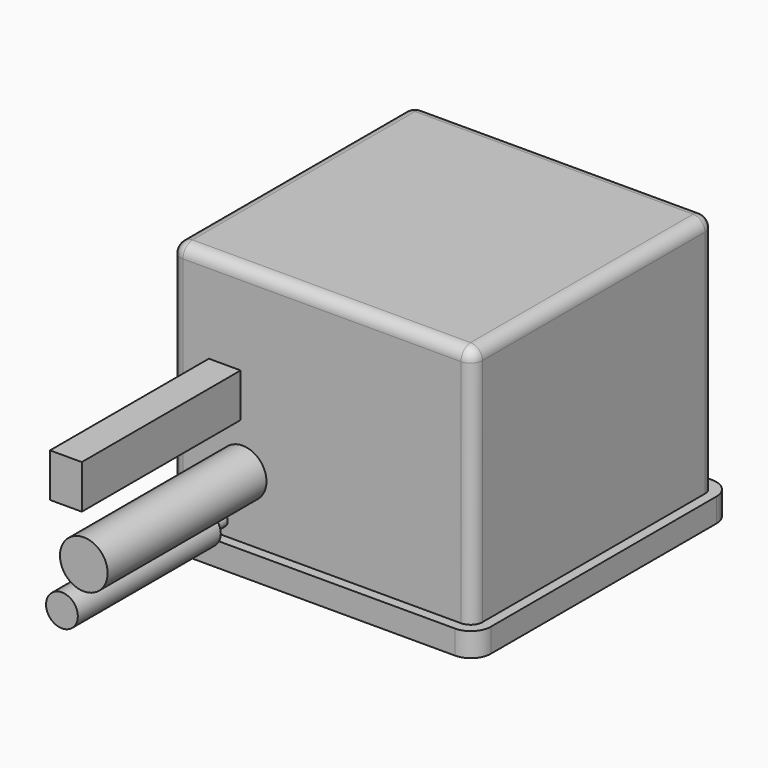
from build123d import *

# Parameters (mm, degrees)
CYLINDER042_R          = 4
CYLINDER042_DEPTH      = 61
CYLINDER042_ROLL_ANGLE = 90
CYLINDER047_R          = 4
CYLINDER047_DEPTH      = 45
CYLINDER047_ROLL_ANGLE = 90
CYLINDER045_R          = 1.75
CYLINDER045_DEPTH      = 31
CYLINDER045_ROLL_ANGLE = 90
CYLINDER046_R          = 4
CYLINDER046_DEPTH      = 45
CYLINDER046_ROLL_ANGLE = 90
CYLINDER043_R          = 6
CYLINDER043_DEPTH      = 63
CYLINDER043_ROLL_ANGLE = 90
BOX038_W               = 8
BOX038_H               = 58
BOX038_DEPTH           = 11
CYLINDER044_R          = 1.75
CYLINDER044_DEPTH      = 23
CYLINDER044_ROLL_ANGLE = 90
BOX040_W               = 81
BOX040_H               = 81
BOX040_DEPTH           = 6
FILLET018008_R         = 5
BOX039_W               = 76
BOX039_H               = 76
BOX039_DEPTH           = 66
FILLET018007_R         = 3


with BuildPart() as cylinder086:
    # Cylinder042 → Cylinder042 (new body)
    with BuildSketch(Plane.XY):
        Circle(CYLINDER042_R)
    extrude(amount=CYLINDER042_DEPTH)


with BuildPart() as cylinder086_1:
    # Cylinder042 roll: moved
    add(cylinder086.part.rotate(Axis((0, 0, 0), (1, 0, 0)), CYLINDER042_ROLL_ANGLE))


with BuildPart() as cylinder086_2:
    # Cylinder042 placement: moved
    add(cylinder086_1.part.moved(Location((-5, 124, 89.6))))


with BuildPart() as cylinder091:
    # Cylinder047 → Cylinder047 (new body)
    with BuildSketch(Plane.XY):
        Circle(CYLINDER047_R)
    extrude(amount=CYLINDER047_DEPTH)


with BuildPart() as cylinder091_1:
    # Cylinder047 roll: moved
    add(cylinder091.part.rotate(Axis((0, 0, 0), (1, 0, 0)), CYLINDER047_ROLL_ANGLE))


with BuildPart() as cylinder091_2:
    # Cylinder047 placement: moved
    add(cylinder091_1.part.moved(Location((-8.5, 124, 71.5))))


with BuildPart() as cylinder089:
    # Cylinder045 → Cylinder045 (new body)
    with BuildSketch(Plane.XY):
        Circle(CYLINDER045_R)
    extrude(amount=CYLINDER045_DEPTH)


with BuildPart() as cylinder089_1:
    # Cylinder045 roll: moved
    add(cylinder089.part.rotate(Axis((0, 0, 0), (1, 0, 0)), CYLINDER045_ROLL_ANGLE))


with BuildPart() as cylinder089_2:
    # Cylinder045 placement: moved
    add(cylinder089_1.part.moved(Location((-8.5, 94, 71.5))))


with BuildPart() as cylinder090:
    # Cylinder046 → Cylinder046 (new body)
    with BuildSketch(Plane.XY):
        Circle(CYLINDER046_R)
    extrude(amount=CYLINDER046_DEPTH)


with BuildPart() as cylinder090_1:
    # Cylinder046 roll: moved
    add(cylinder090.part.rotate(Axis((0, 0, 0), (1, 0, 0)), CYLINDER046_ROLL_ANGLE))


with BuildPart() as cylinder090_2:
    # Cylinder046 placement: moved
    add(cylinder090_1.part.moved(Location((-8.5, -7, 71.5))))


with BuildPart() as cylinder087:
    # Cylinder043 → Cylinder043 (new body)
    with BuildSketch(Plane.XY):
        Circle(CYLINDER043_R)
    extrude(amount=CYLINDER043_DEPTH)


with BuildPart() as cylinder087_1:
    # Cylinder043 roll: moved
    add(cylinder087.part.rotate(Axis((0, 0, 0), (1, 0, 0)), CYLINDER043_ROLL_ANGLE))


with BuildPart() as cylinder087_2:
    # Cylinder043 placement: moved
    add(cylinder087_1.part.moved(Location((-3, 11, 83.5))))


with BuildPart() as cube037:
    # Box038 → Box038 (new body)
    with BuildSketch(Plane(origin=(-11.5, -52, 95), x_dir=(1, 0, 0), z_dir=(0, 0, 1))):
        with Locations((4, 29)):
            Rectangle(BOX038_W, BOX038_H)
    extrude(amount=BOX038_DEPTH)


with BuildPart() as cylinder088:
    # Cylinder044 → Cylinder044 (new body)
    with BuildSketch(Plane.XY):
        Circle(CYLINDER044_R)
    extrude(amount=CYLINDER044_DEPTH)


with BuildPart() as cylinder088_1:
    # Cylinder044 roll: moved
    add(cylinder088.part.rotate(Axis((0, 0, 0), (1, 0, 0)), CYLINDER044_ROLL_ANGLE))


with BuildPart() as cylinder088_2:
    # Cylinder044 placement: moved
    add(cylinder088_1.part.moved(Location((-8.5, 1, 71.5))))


with BuildPart() as fillet018008:
    # Box040 → Box040 (new body)
    with BuildSketch(Plane(origin=(-23.5, -4.5, 63), x_dir=(1, 0, 0), z_dir=(0, 0, 1))):
        with Locations((40.5, 40.5)):
            Rectangle(BOX040_W, BOX040_H)
    extrude(amount=BOX040_DEPTH)

    # Fillet018008
    fillet018008_edges = [fillet018008.edges().sort_by_distance(p)[0] for p in [
        (-23.5, -4.5, 66),
        (-23.5, 76.5, 66),
        (57.5, -4.5, 66),
        (57.5, 76.5, 66),
    ]]
    fillet(fillet018008_edges, radius=FILLET018008_R)


with BuildPart() as fillet018008_1:
    # Fillet018008 placement: moved
    add(fillet018008.part.moved(Location((0, 0, -1))))


with BuildPart() as corte_positivo:
    # Box039 → Box039 (new body)
    with BuildSketch(Plane(origin=(-21, -2, 63), x_dir=(1, 0, 0), z_dir=(0, 0, 1))):
        with Locations((38, 38)):
            Rectangle(BOX039_W, BOX039_H)
    extrude(amount=BOX039_DEPTH)

    # Fillet018007
    fillet018007_edges = [corte_positivo.edges().sort_by_distance(p)[0] for p in [
        (-21, -2, 96),
        (-21, 36, 129),
        (-21, 74, 96),
        (55, -2, 96),
        (55, 36, 129),
        (55, 74, 96),
        (17, -2, 129),
        (17, 74, 129),
    ]]
    fillet(fillet018007_edges, radius=FILLET018007_R)

    # Fusion033: union Fillet018008
    add(fillet018008_1.part)

    # Fusion034: union Cylinder086, Cylinder091, Cylinder089, Cylinder090, Cylinder087, Cube037, Cylinder088
    add(cylinder086_2.part)
    add(cylinder091_2.part)
    add(cylinder089_2.part)
    add(cylinder090_2.part)
    add(cylinder087_2.part)
    add(cube037.part)
    add(cylinder088_2.part)


solid = corte_positivo.part
